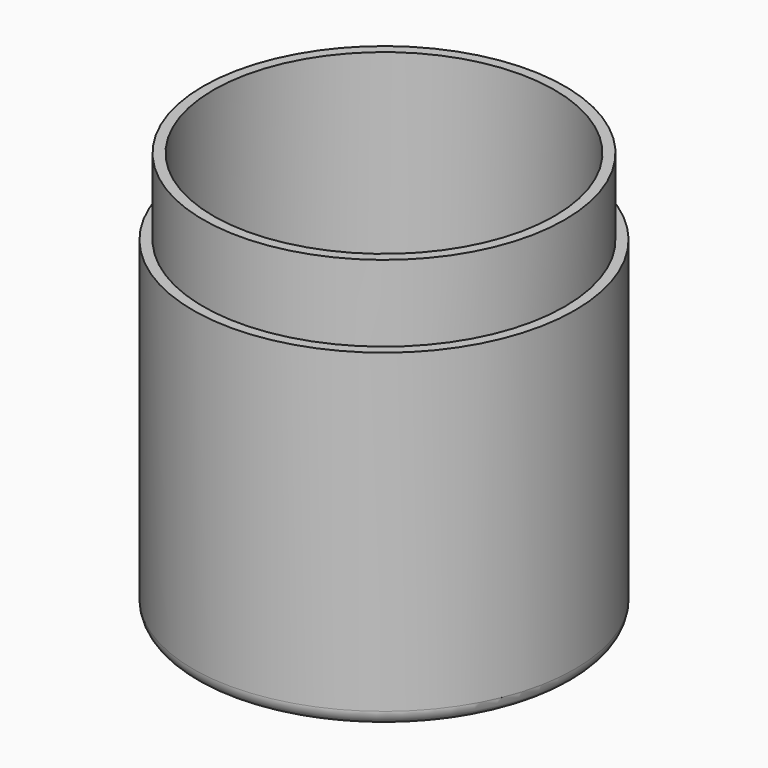
from build123d import *

# Parameters (mm, degrees)
F0_R     = 37.5
F1_DEPTH = 80
F2_T     = -4
F3_R     = 37.5
F3_R_2   = 35.5
F4_DEPTH = 15
F5_R     = 3


with BuildPart() as f1:
    # F0 (on Top) → F1 (new body)
    with BuildSketch(Plane.XY):
        Circle(F0_R)
    extrude(amount=F1_DEPTH)

    # F2
    f2_openings = [f1.faces().sort_by_distance(p)[0] for p in [
        (0, 0, 80),
    ]]
    offset(amount=F2_T, openings=f2_openings)

    # F3 (on face) → F4 (cut)
    with BuildSketch(Plane.XY.offset(80)):
        Circle(F3_R)
        Circle(F3_R_2, mode=Mode.SUBTRACT)
    extrude(amount=-F4_DEPTH, mode=Mode.SUBTRACT)

    # F5
    f5_edges = [f1.edges().sort_by_distance(p)[0] for p in [
        (-37.5, 0, 0),
        (-33.5, 0, 4),
    ]]
    fillet(f5_edges, radius=F5_R)


solid = f1.part
